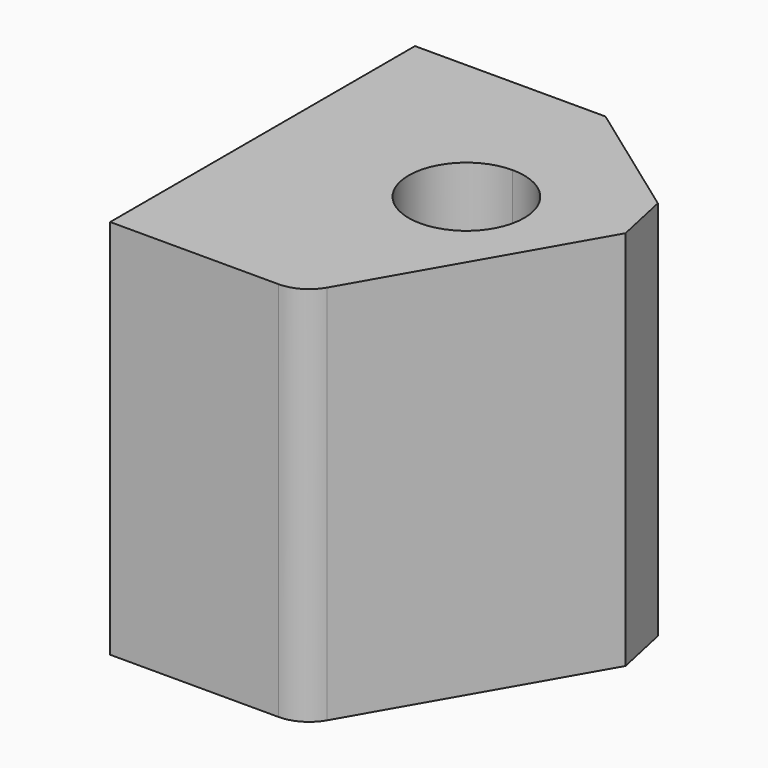
from build123d import *

# Parameters (mm, degrees)
F1_DEPTH = 50.8
F2_R     = 5.08
F3_SIZE  = 5.08


with BuildPart() as f1:
    # F0 (on Top) → F1 (new body)
    with BuildSketch(Plane.XY):
        with BuildLine():
            Line((25.4, 0), (0, 0))
            Line((0, 0), (0, -50.8))
            Line((0, -50.8), (25.4, -50.8))
            Line((25.4, -50.8), (25.4, -30.870903))
            ThreePointArc((25.4, -30.870903), (17.7038, -23.174703), (25.4, -15.478503))
            Line((25.4, -15.478503), (25.4, 0))
        make_face()
        with BuildLine():
            Line((46.007535, -14.848889), (25.4, 0))
            Line((25.4, 0), (25.4, -15.478503))
            ThreePointArc((25.4, -15.478503), (30.842035, -17.732668), (33.0962, -23.174703))
            ThreePointArc((33.0962, -23.174703), (30.842035, -28.616738), (25.4, -30.870903))
            Line((25.4, -30.870903), (25.4, -50.8))
            Line((25.4, -50.8), (46.007535, -14.848889))
        make_face()
    extrude(amount=F1_DEPTH)

    # F2
    f2_edges = [f1.edges().sort_by_distance(p)[0] for p in [
        (25.4, -50.8, 25.4),
    ]]
    fillet(f2_edges, radius=F2_R)

    # F3
    f3_edges = [f1.edges().sort_by_distance(p)[0] for p in [
        (46.007535, -14.848889, 25.4),
    ]]
    chamfer(f3_edges, length=F3_SIZE)


solid = f1.part
